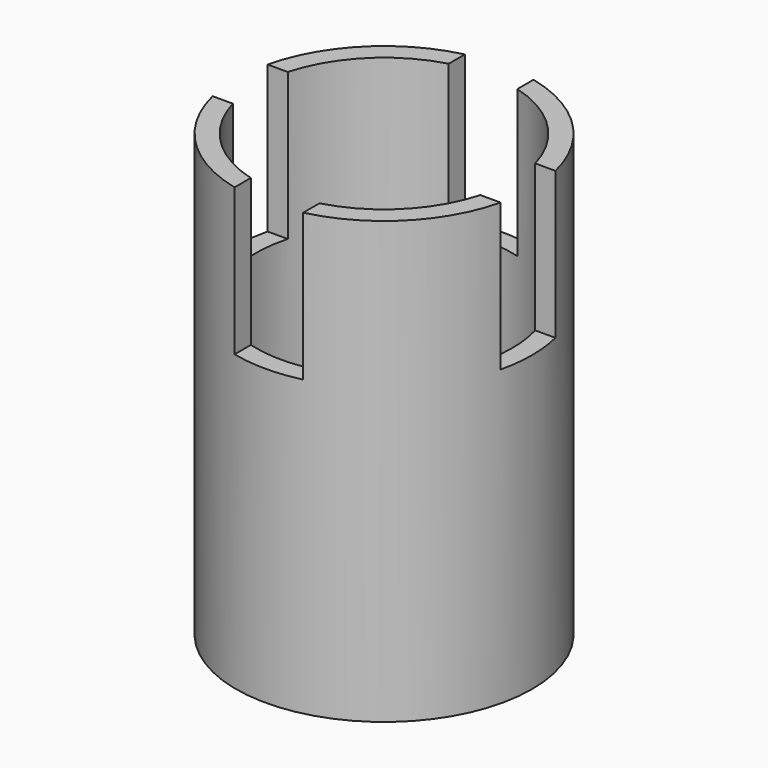
from build123d import *

# Parameters (mm, degrees)
F0_R     = 15.1
F0_R_2   = 13.1
F1_DEPTH = 45
F2_W     = 7
F2_H     = 15
F3_DEPTH = 25
F4_DEPTH = 25
F5_W     = 7
F5_H     = 15
F6_DEPTH = 25
F7_DEPTH = 25


with BuildPart() as f1:
    # F0 (on Top) → F1 (new body)
    with BuildSketch(Plane.XY):
        Circle(F0_R)
        Circle(F0_R_2, mode=Mode.SUBTRACT)
    extrude(amount=F1_DEPTH)

    # F2 (on Front) → F3 (cut)
    with BuildSketch(Plane.XZ):
        with Locations((0, 37.5)):
            Rectangle(F2_W, F2_H)
    extrude(amount=-F3_DEPTH, mode=Mode.SUBTRACT)

    # F2 (on Front) → F4 (cut)
    with BuildSketch(Plane.XZ):
        with Locations((0, 37.5)):
            Rectangle(F2_W, F2_H)
    extrude(amount=F4_DEPTH, mode=Mode.SUBTRACT)

    # F5 (on Right) → F6 (cut)
    with BuildSketch(Plane.YZ):
        with Locations((0, 37.5)):
            Rectangle(F5_W, F5_H)
    extrude(amount=-F6_DEPTH, mode=Mode.SUBTRACT)

    # F5 (on Right) → F7 (cut)
    with BuildSketch(Plane.YZ):
        with Locations((0, 37.5)):
            Rectangle(F5_W, F5_H)
    extrude(amount=F7_DEPTH, mode=Mode.SUBTRACT)


solid = f1.part
